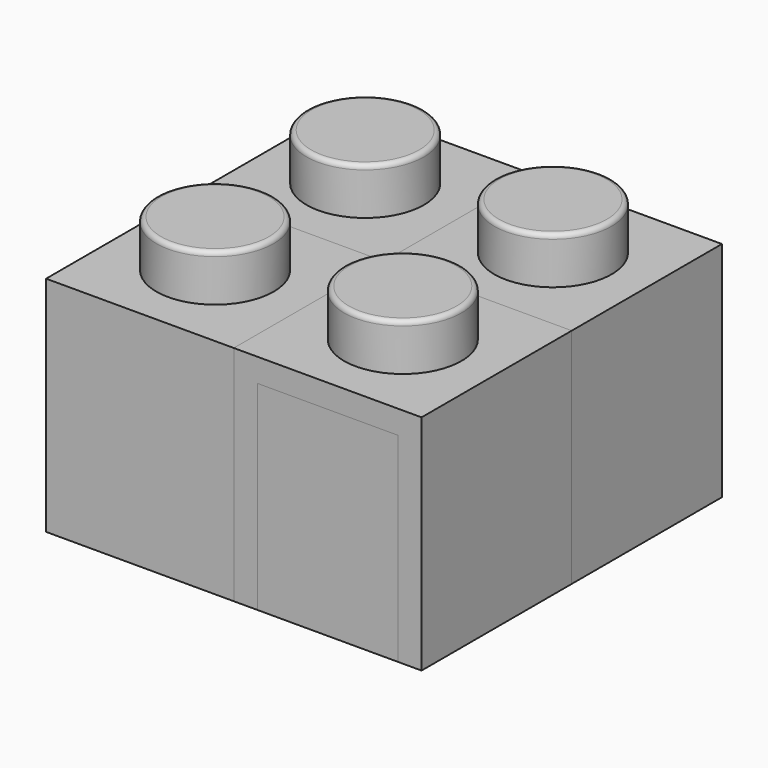
from build123d import *

# Parameters (mm, degrees)
F0_W     = 2.5
F0_H     = 2
F2_R     = 0.2
F4_DEPTH = 4
F5_DEPTH = 4


with BuildPart() as f1:
    # F0 (on Front) → F1 (revolve)
    with BuildSketch(Plane.XZ):
        with Locations((-1.25, 5.75)):
            Rectangle(F0_W, F0_H)
    revolve(axis=Axis((0, 0, 5.75), (0, 0, -1)))

    # F2
    f2_edges = [f1.edges().sort_by_distance(p)[0] for p in [
        (2.5, 0, 6.75),
    ]]
    fillet(f2_edges, radius=F2_R)


with BuildPart() as f4:
    # F3 (on Right) → F4 (new body, symmetric)
    with BuildSketch(Plane.YZ):
        Polygon((4, -4.75), (4, 4.75), (-4, 4.75), (-4, -4.75), (-3, -4.75), (-3, 3.7460238673), (0, 3.7460238673), (3, 3.7460238673), (3, -4.75), align=None)
    extrude(amount=F4_DEPTH, both=True)


with BuildPart() as f5:
    # F0 (on Front) → F5 (new body, symmetric)
    with BuildSketch(Plane.XZ):
        Polygon((0, 3.75), (0, 4.75), (-2.5, 4.75), (-4, 4.75), (-4, -4.75), (-3, -4.75), (-3, 3.75), align=None)
        Polygon((4, 4.75), (0, 4.75), (0, 3.75), (3, 3.75), (3, -4.75), (4, -4.75), align=None)
    extrude(amount=F5_DEPTH, both=True)


with BuildPart() as f6_1:
    # F6: instance of F1
    add(f1.part.mirror(Plane(origin=(-4, 0, 0), x_dir=(0, -1, 0), z_dir=(-1, 0, 0))))


with BuildPart() as f6_2:
    # F6: instance of F5
    add(f5.part.mirror(Plane(origin=(-4, 0, 0), x_dir=(0, -1, 0), z_dir=(-1, 0, 0))))


with BuildPart() as f6_3:
    # F6: instance of F4
    add(f4.part.mirror(Plane(origin=(-4, 0, 0), x_dir=(0, -1, 0), z_dir=(-1, 0, 0))))


with BuildPart() as f7_1:
    # F7: instance of F1
    add(f1.part.mirror(Plane(origin=(-8, 4, 0), x_dir=(-1, 0, 0), z_dir=(0, 1, 0))))


with BuildPart() as f7_2:
    # F7: instance of F4
    add(f4.part.mirror(Plane(origin=(-8, 4, 0), x_dir=(-1, 0, 0), z_dir=(0, 1, 0))))


with BuildPart() as f7_3:
    # F7: instance of F5
    add(f5.part.mirror(Plane(origin=(-8, 4, 0), x_dir=(-1, 0, 0), z_dir=(0, 1, 0))))


with BuildPart() as f7_4:
    # F7: instance of F6_1
    add(f6_1.part.mirror(Plane(origin=(-8, 4, 0), x_dir=(-1, 0, 0), z_dir=(0, 1, 0))))


with BuildPart() as f7_5:
    # F7: instance of F6_3
    add(f6_3.part.mirror(Plane(origin=(-8, 4, 0), x_dir=(-1, 0, 0), z_dir=(0, 1, 0))))


with BuildPart() as f7_6:
    # F7: instance of F6_2
    add(f6_2.part.mirror(Plane(origin=(-8, 4, 0), x_dir=(-1, 0, 0), z_dir=(0, 1, 0))))


solid = Compound([f1.part, f4.part, f5.part, f6_1.part, f6_2.part, f6_3.part, f7_1.part, f7_2.part, f7_3.part, f7_4.part, f7_5.part, f7_6.part])
